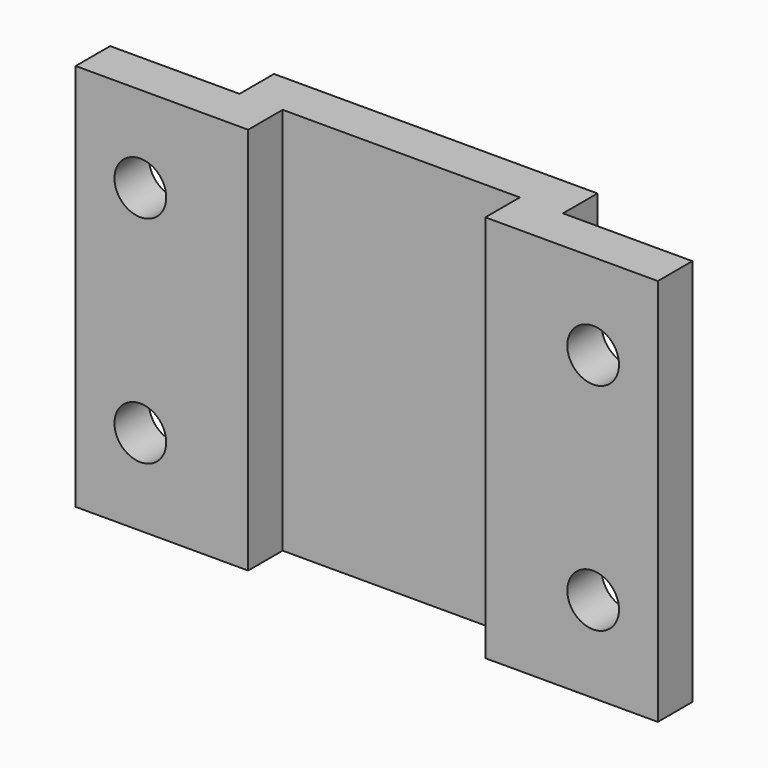
from build123d import *

# Parameters (mm, degrees)
F1_DEPTH = 90
F2_R     = 6
F3_DEPTH = 20.001


with BuildPart() as f1:
    # F0 (on Top) → F1 (new body)
    with BuildSketch(Plane.XY):
        Polygon((-70, 10), (-70, 0), (-30, 0), (-30, 10), (25, 10), (25, 0), (65, 0), (65, 10), (35, 10), (35, 20), (-40, 20), (-40, 10), align=None)
    extrude(amount=F1_DEPTH)

    # F2 (on Front) → F3 (cut, through all)
    with BuildSketch(Plane.XZ):
        with Locations((-55, 20)):
            Circle(F2_R)
        with Locations((-55, 70)):
            Circle(F2_R)
        with Locations((50, 70)):
            Circle(F2_R)
        with Locations((50, 20)):
            Circle(F2_R)
    extrude(amount=-F3_DEPTH, mode=Mode.SUBTRACT)


solid = f1.part
